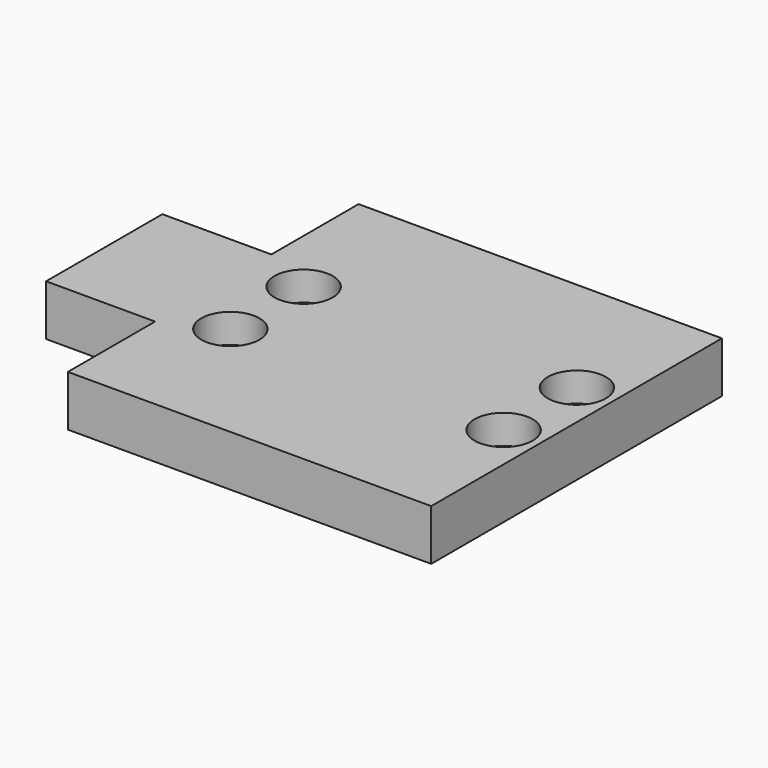
from build123d import *

# Parameters (mm, degrees)
F1_DEPTH       = 7
F3_D           = 4
F3_DEPTH       = 6
F3_TIP         = 1.2017212381
F5_D           = 4.2
F5_CBORE_D     = 8
F5_CBORE_DEPTH = 4


with BuildPart() as f1:
    # F0 (on Top) → F1 (new body)
    with BuildSketch(Plane.XY):
        Polygon((32.5, -25), (32.5, 25), (-17.5, 25), (-17.5, 10), (-32.5, 10), (-32.5, -10), (-17.5, -10), (-17.5, -25), align=None)
    extrude(amount=F1_DEPTH)

    # F3
    with Locations(Plane(origin=(-32.5, 0, 0), x_dir=(0, -1, 0), z_dir=(-1, 0, 0))):
        with Locations((-5, 3.5), (5, 3.5)):
            Hole(F3_D / 2, depth=F3_DEPTH)
            with Locations((0, 0, -(F3_DEPTH + F3_TIP / 2))):  # 118° drill point
                Cone(0, F3_D / 2, F3_TIP, mode=Mode.SUBTRACT)

    # F5 (through all)
    with Locations(Plane.XY.offset(7)):
        with Locations((-10.1, 6.3), (-10.1, -6.3), (27.5, -6.3), (27.5, 6.3)):
            CounterBoreHole(F5_D / 2, F5_CBORE_D / 2, F5_CBORE_DEPTH)


solid = f1.part
